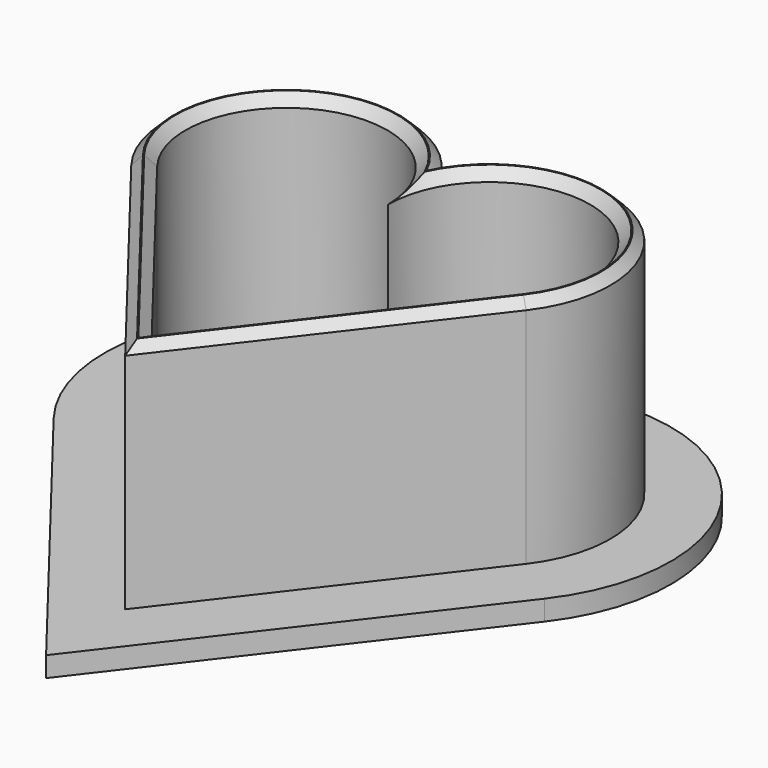
from build123d import *

# Parameters (mm, degrees)
F1_DEPTH = 25
F2_SIZE  = 1
F3_SIZE  = 0.9
F4_DEPTH = 2


with BuildPart() as f1:
    # F0 (on Top) → F1 (new body)
    with BuildSketch(Plane.XY):
        with BuildLine():
            ThreePointArc((19.4576948641, 7.0878110017), (16.9014285769, 24.177453273), (-0.0826562467, 20.994493487))
            ThreePointArc((-0.0826562467, 20.994493487), (-17.0758205861, 24.0547884178), (-19.5363304351, 6.9644715509))
            Line((-19.5363304351, 6.9644715509), (0.0076825592, -18.2174257356))
            Line((0.0076825592, -18.2174257356), (19.4576948641, 7.0878110017))
        make_face()
        with BuildLine():
            Line((17.8719759612, 8.3066200764), (0, -14.9455288462))
            Line((0, -14.9455288462), (-17.9563526213, 8.1907138222))
            ThreePointArc((-17.9563526213, 8.1907138222), (-13.3155361336, 23.7759426267), (-0.056541053, 14.3612953145))
            ThreePointArc((-0.056541053, 14.3612953145), (13.1429709457, 23.8749795171), (17.8719759612, 8.3066200764))
        make_face(mode=Mode.SUBTRACT)
    extrude(amount=F1_DEPTH)

    # F2
    f2_edges = [f1.edges().sort_by_distance(p)[0] for p in [
        (-8.978176, -3.377408, 25),
        (8.935988, -3.319454, 25),
        (13.142971, 23.87498, 25),
        (-13.315536, 23.775943, 25),
    ]]
    chamfer(f2_edges, length=F2_SIZE)

    # F3
    f3_edges = [f1.edges().sort_by_distance(p)[0] for p in [
        (-9.764324, -5.626477, 25),
        (-17.075821, 24.054788, 25),
        (16.901429, 24.177453, 25),
        (9.732689, -5.564807, 25),
    ]]
    chamfer(f3_edges, length=F3_SIZE)

    # F0 (on Top) → F4 (join)
    with BuildSketch(Plane.XY):
        with BuildLine():
            Line((0.0307302369, -28.033116404), (24.214851573, 3.4313837773))
            ThreePointArc((24.214851573, 3.4313837773), (23.0617943824, 26.7257310501), (-0.1154648769, 29.3278088692))
            ThreePointArc((-0.1154648769, 29.3278088692), (-23.2520807017, 26.5642978264), (-24.2762638766, 3.285744737))
            Line((-24.2762638766, 3.285744737), (0.0307302369, -28.033116404))
        make_face()
        with BuildLine():
            ThreePointArc((-19.5363304351, 6.9644715509), (-17.0758205861, 24.0547884178), (-0.0826562467, 20.994493487))
            ThreePointArc((-0.0826562467, 20.994493487), (16.9014285769, 24.177453273), (19.4576948641, 7.0878110017))
            Line((19.4576948641, 7.0878110017), (0.0076825592, -18.2174257356))
            Line((0.0076825592, -18.2174257356), (-19.5363304351, 6.9644715509))
        make_face(mode=Mode.SUBTRACT)
    extrude(amount=F4_DEPTH)


solid = f1.part
